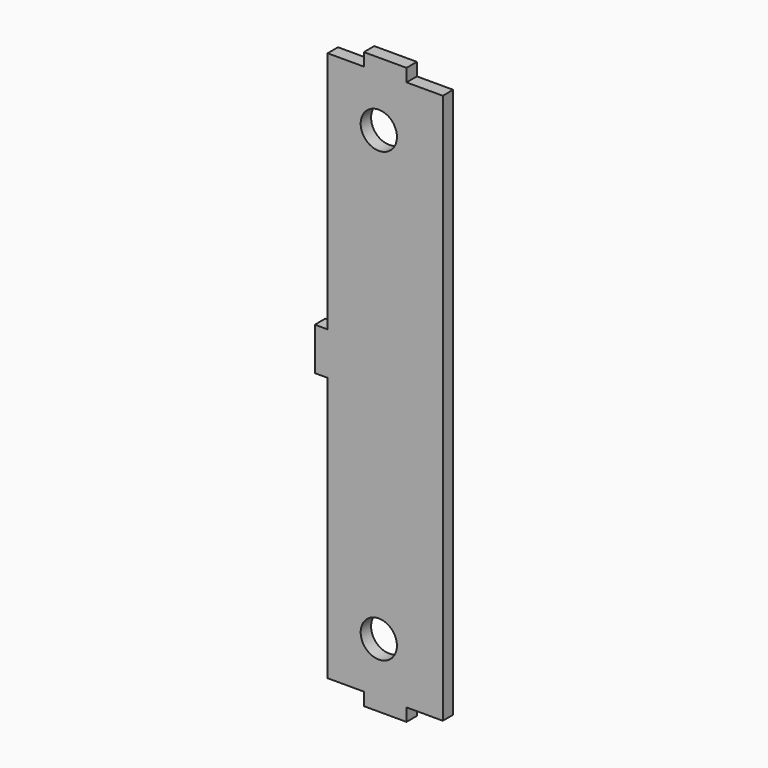
from build123d import *

# Parameters (mm, degrees)
F0_R     = 4.250004
F1_DEPTH = 3.048


with BuildPart() as f1:
    # F0 (on Front) → F1 (new body)
    with BuildSketch(Plane.XZ):
        Polygon((-12.000001, 64.499998), (-12.000001, 7.499985), (-14.999995, 7.499985), (-14.999995, -2.499995), (-12.000001, -2.499995), (-12.000001, -64.499998), (-3.499993, -64.499998), (-3.499993, -67.500017), (6.500012, -67.500017), (6.500012, -64.499998), (15.000021, -64.499998), (15.000021, 64.499998), (6.500012, 64.499998), (6.500012, 67.499992), (-3.499993, 67.499992), (-3.499993, 64.499998), align=None)
        with Locations((0, -52.499997)):
            Circle(F0_R, mode=Mode.SUBTRACT)
        with Locations((0, 52.499997)):
            Circle(F0_R, mode=Mode.SUBTRACT)
    extrude(amount=F1_DEPTH)


solid = f1.part
